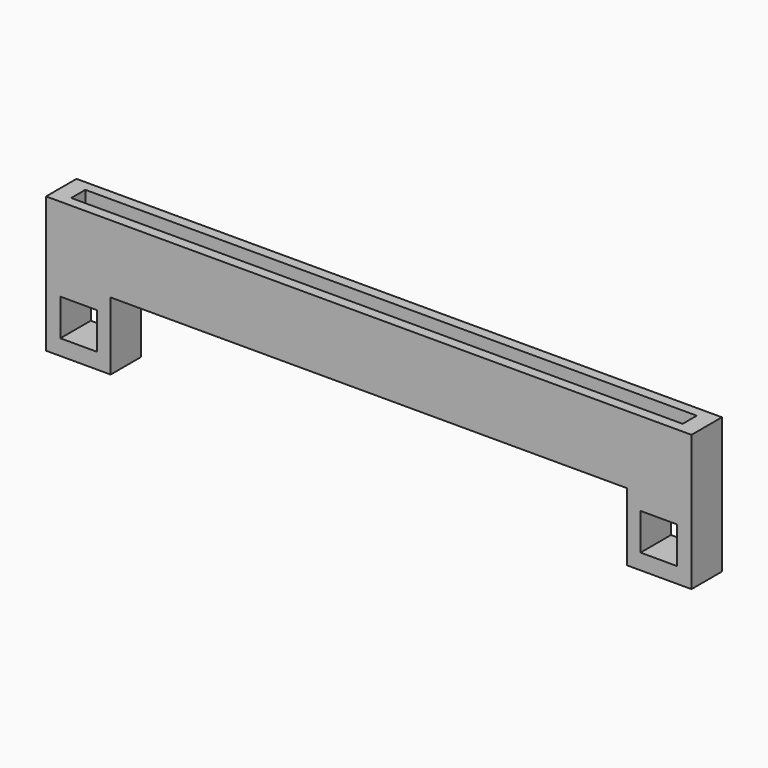
from build123d import *

# Parameters (mm, degrees)
F0_W     = 95
F0_H     = 5.6
F0_W_2   = 90
F0_H_2   = 2.6
F1_DEPTH = 10
F2_DEPTH = 1.5
F4_DEPTH = 5.6


with BuildPart() as f1:
    # F0 (on Top) → F1 (new body)
    with BuildSketch(Plane.XY):
        Rectangle(F0_W, F0_H)
        Rectangle(F0_W_2, F0_H_2, mode=Mode.SUBTRACT)
    extrude(amount=F1_DEPTH)

    # F0 (on Top) → F2 (join)
    with BuildSketch(Plane.XY):
        Rectangle(F0_W_2, F0_H_2)
    extrude(amount=F2_DEPTH)

    # F3 (on face) → F4 (join)
    with BuildSketch(Plane(origin=(0, 2.8, 0), x_dir=(-1, 0, 0), z_dir=(0, 1, 0))):
        Polygon((-40, -2.3), (-40, 0), (-47.5, 0), (-47.5, -10), (-40, -10), (-40, -7.7), (-45.4, -7.7), (-45.4, -2.3), align=None)
        Polygon((-38, -10), (-38, 0), (-40, 0), (-40, -2.3), (-40, -7.7), (-40, -10), align=None)
        Polygon((40, -2.3), (40, 0), (38, 0), (38, -10), (40, -10), (40, -7.7), align=None)
        Polygon((47.5, 0), (40, 0), (40, -2.3), (45.4, -2.3), (45.4, -7.7), (40, -7.7), (40, -10), (47.5, -10), align=None)
    extrude(amount=-F4_DEPTH)


solid = f1.part
